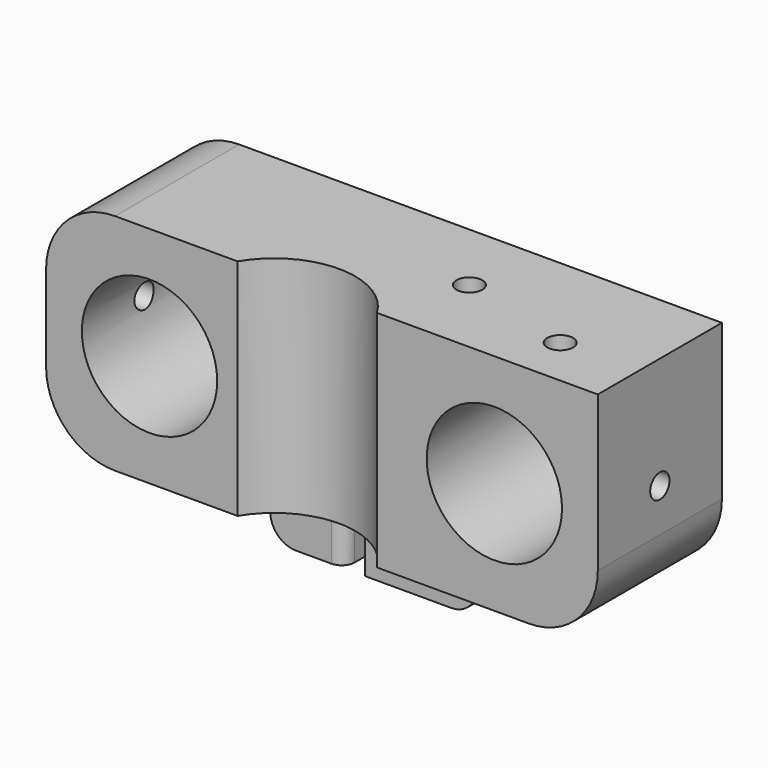
from build123d import *

# Parameters (mm, degrees)
BOX001_W        = 64
BOX001_H        = 18
BOX001_DEPTH    = 26
SKETCH010_R     = 7.85
POCKET001_DEPTH = 18.001
SKETCH011_W     = 24
SKETCH011_H     = 8
PAD001_DEPTH    = 8
SKETCH017_R     = 9.4
POCKET003_DEPTH = 34.001
SKETCH019_R     = 1.5
POCKET005_DEPTH = 5
SKETCH022_R     = 1.4
POCKET008_DEPTH = 5
SKETCH023_R     = 1.4
POCKET009_DEPTH = 5
SKETCH025_R     = 1.4
POCKET010_DEPTH = 8
SKETCH028_R     = 1.5
POCKET013_DEPTH = 7.8
SKETCH024_W     = 2.4
SKETCH024_H     = 8.929814
POCKET014_DEPTH = 8
FILLET_R        = 4
FILLET001_R     = 3
FILLET002_R     = 1.5
FILLET003_R     = 8


with BuildPart() as part:
    # Box001 → Box001 (new body)
    with BuildSketch(Plane(origin=(0, 27, 0), x_dir=(1, 0, 0), z_dir=(0, 0, 1))):
        with Locations((32, 9)):
            Rectangle(BOX001_W, BOX001_H)
    extrude(amount=BOX001_DEPTH)

    # Sketch010 → Pocket001 (cut, through all)
    with BuildSketch(Plane.XZ.offset(-27)):
        with Locations((12, 13)):
            Circle(SKETCH010_R)
        with Locations((52, 13)):
            Circle(SKETCH010_R)
    extrude(amount=-POCKET001_DEPTH, mode=Mode.SUBTRACT)

    # Sketch011 → Pad001 (new body)
    with BuildSketch(Plane(origin=(0, 27, 0), x_dir=(1, 0, 0), z_dir=(0, 0, -1))):
        with Locations((30, -14)):
            Rectangle(SKETCH011_W, SKETCH011_H)
    extrude(amount=PAD001_DEPTH)

    # Sketch017 → Pocket003 (cut, through all)
    with BuildSketch(Plane(origin=(0, 27, 26), x_dir=(1, 0, 0), z_dir=(0, 0, 1))):
        with Locations((30.3, -4.8)):
            Circle(SKETCH017_R)
    extrude(amount=-POCKET003_DEPTH, mode=Mode.SUBTRACT)

    # Sketch019 → Pocket005 (cut)
    with BuildSketch(Plane(origin=(0, 27, 26), x_dir=(1, 0, 0), z_dir=(0, 0, 1))):
        with Locations((41.5, 9.5)):
            Circle(SKETCH019_R)
        with Locations((55, 5.8)):
            Circle(SKETCH019_R)
    extrude(amount=-POCKET005_DEPTH, mode=Mode.SUBTRACT)

    # Sketch022 → Pocket008 (cut)
    with BuildSketch(Plane(origin=(0, 27, 0), x_dir=(0, -1, 0), z_dir=(-1, 0, 0))):
        with Locations((-9, 13)):
            Circle(SKETCH022_R)
    extrude(amount=-POCKET008_DEPTH, mode=Mode.SUBTRACT)

    # Sketch023 → Pocket009 (cut)
    with BuildSketch(Plane(origin=(64, 27, 0), x_dir=(0, 1, 0), z_dir=(1, 0, 0))):
        with Locations((9, 13)):
            Circle(SKETCH023_R)
    extrude(amount=-POCKET009_DEPTH, mode=Mode.SUBTRACT)

    # Sketch025 → Pocket010 (cut)
    with BuildSketch(Plane(origin=(0, 27, 0), x_dir=(1, 0, 0), z_dir=(0, 0, -1))):
        with Locations((26, -7)):
            Circle(SKETCH025_R)
    extrude(amount=-POCKET010_DEPTH, mode=Mode.SUBTRACT)

    # Sketch028 → Pocket013 (cut)
    with BuildSketch(Plane(origin=(0, 45, 0), x_dir=(-1, 0, 0), z_dir=(0, 1, 0))):
        with Locations((-35, 3)):
            Circle(SKETCH028_R)
        with Locations((-35, 16)):
            Circle(SKETCH028_R)
    extrude(amount=-POCKET013_DEPTH, mode=Mode.SUBTRACT)

    # Sketch024 → Pocket014 (cut)
    with BuildSketch(Plane(origin=(0, 45, 0), x_dir=(-1, 0, 0), z_dir=(0, 1, 0))):
        with Locations((-27.8, -4.464907)):
            Rectangle(SKETCH024_W, SKETCH024_H)
    extrude(amount=-POCKET014_DEPTH, mode=Mode.SUBTRACT)

    # Fillet
    fillet_edges = [part.edges().sort_by_distance(p)[0] for p in [
        (18, 41, 0),
        (42, 41, 0),
    ]]
    fillet(fillet_edges, radius=FILLET_R)

    # Fillet001
    fillet001_edges = [part.edges().sort_by_distance(p)[0] for p in [
        (42, 41, -8),
        (18, 41, -8),
    ]]
    fillet(fillet001_edges, radius=FILLET001_R)

    # Fillet002
    fillet002_edges = [part.edges().sort_by_distance(p)[0] for p in [
        (26.6, 37, -4),
    ]]
    fillet(fillet002_edges, radius=FILLET002_R)

    # Fillet003
    fillet003_edges = [part.edges().sort_by_distance(p)[0] for p in [
        (64, 36, 0),
        (0, 36, 26),
        (0, 36, 0),
    ]]
    fillet(fillet003_edges, radius=FILLET003_R)


solid = part.part
